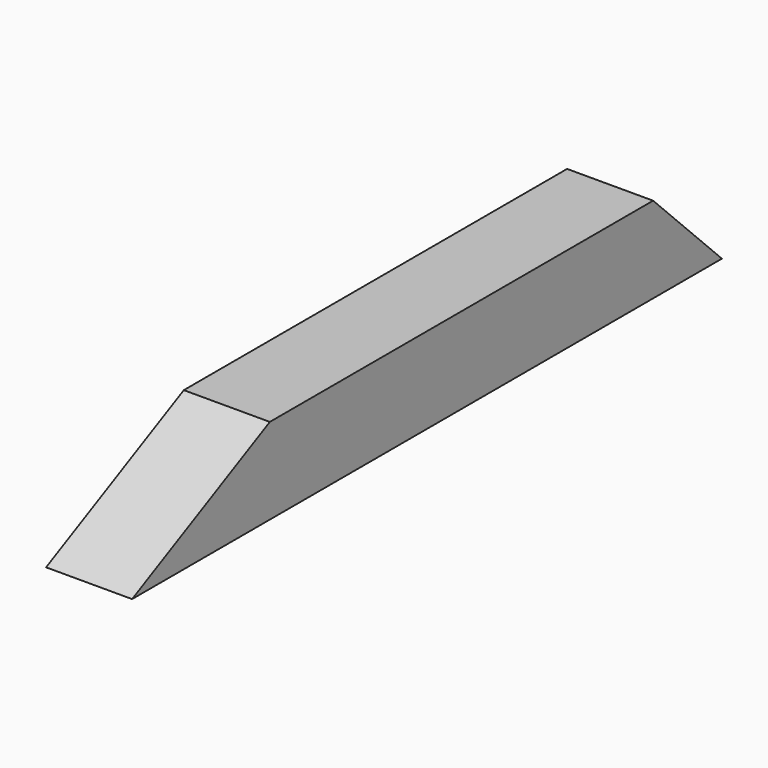
from build123d import *

# Parameters (mm, degrees)
F0_W     = 3.5
F0_H     = 30
F1_DEPTH = 3.5
F3_DEPTH = 3.501


with BuildPart() as f1:
    # F0 (on Top) → F1 (new body)
    with BuildSketch(Plane.XY):
        Rectangle(F0_W, F0_H)
    extrude(amount=F1_DEPTH)

    # F2 (on face) → F3 (cut, through all)
    with BuildSketch(Plane.YZ.offset(1.75)):
        Polygon((-15, 3.5), (-15, 0), (-7.9954, 3.5), align=None)
        Polygon((15, 3.5), (11.5, 3.5), (15, 0), align=None)
    extrude(amount=-F3_DEPTH, mode=Mode.SUBTRACT)


solid = f1.part
